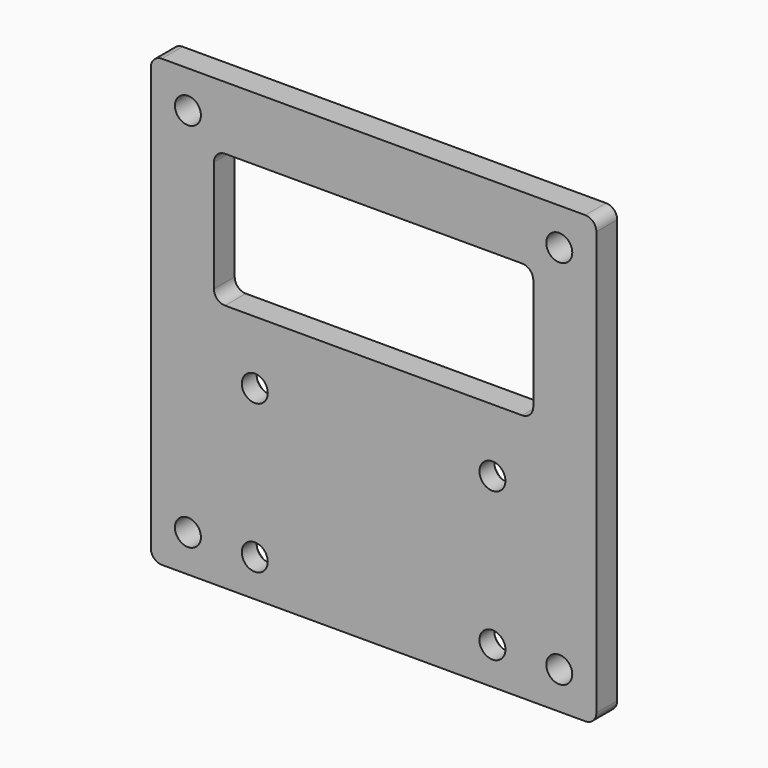
from build123d import *

# Parameters (mm, degrees)
F0_R     = 3.5
F1_DEPTH = 7
F2_R     = 3.5
F3_DEPTH = 25
F4_R     = 5.5
F5_DEPTH = 2
F6_W     = 86
F6_H     = 36
F7_DEPTH = 25
F8_R     = 3


with BuildPart() as f1:
    # F0 (on Front) → F1 (new body)
    with BuildSketch(Plane.XZ):
        with BuildLine():
            Line((-57, -60), (57, -60))
            ThreePointArc((57, -60), (59.12132, -59.12132), (60, -57))
            Line((60, -57), (60, 57))
            ThreePointArc((60, 57), (59.12132, 59.12132), (57, 60))
            Line((57, 60), (-57, 60))
            ThreePointArc((-57, 60), (-59.12132, 59.12132), (-60, 57))
            Line((-60, 57), (-60, -57))
            ThreePointArc((-60, -57), (-59.12132, -59.12132), (-57, -60))
        make_face()
        with Locations((-50, -50)):
            Circle(F0_R, mode=Mode.SUBTRACT)
        with Locations((50, -50)):
            Circle(F0_R, mode=Mode.SUBTRACT)
        with Locations((-50, 50)):
            Circle(F0_R, mode=Mode.SUBTRACT)
        with Locations((50, 50)):
            Circle(F0_R, mode=Mode.SUBTRACT)
    extrude(amount=F1_DEPTH)

    # F2 (on face) → F3 (cut)
    with BuildSketch(Plane.XZ.offset(7)):
        with Locations((-32, -10)):
            Circle(F2_R)
        with Locations((-32, -50)):
            Circle(F2_R)
        with Locations((32, -50)):
            Circle(F2_R)
        with Locations((32, -10)):
            Circle(F2_R)
    extrude(amount=-F3_DEPTH, mode=Mode.SUBTRACT)

    # F4 (on face) → F5 (cut)
    with BuildSketch(Plane(origin=(0, 0, 0), x_dir=(-1, 0, 0), z_dir=(0, 1, 0))):
        with Locations((-32, -10)):
            Circle(F4_R)
        with Locations((-32, -50)):
            Circle(F4_R)
        with Locations((32, -50)):
            Circle(F4_R)
        with Locations((32, -10)):
            Circle(F4_R)
    extrude(amount=-F5_DEPTH, mode=Mode.SUBTRACT)

    # F6 (on face) → F7 (cut)
    with BuildSketch(Plane.XZ.offset(7)):
        with Locations((0, 25)):
            Rectangle(F6_W, F6_H)
    extrude(amount=-F7_DEPTH, mode=Mode.SUBTRACT)

    # F8
    f8_edges = [f1.edges().sort_by_distance(p)[0] for p in [
        (-43, -3.5, 43),
        (-43, -3.5, 7),
        (43, -3.5, 43),
        (43, -3.5, 7),
    ]]
    fillet(f8_edges, radius=F8_R)


solid = f1.part
